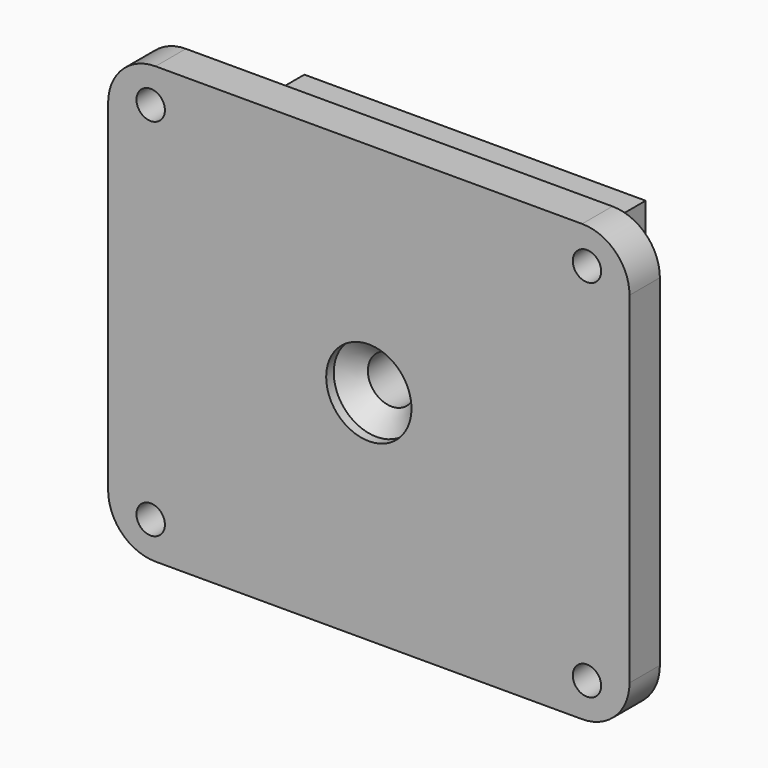
from build123d import *

# Parameters (mm, degrees)
F0_W            = 55
F0_H            = 46
F0_W_2          = 36
F0_H_2          = 36
F1_DEPTH        = 4
F2_DEPTH        = 10
F3_D            = 5
F3_DEPTH        = 38
F8_D            = 9
F8_DEPTH        = 1
F9_D            = 5
F9_DEPTH        = 13
F9_CSINK_D      = 9
F9_CSINK_ANGLE  = 90
F10_D           = 3
F10_DEPTH       = 38
F10_CSINK_D     = 5
F10_CSINK_ANGLE = 90
F11_R           = 5


with BuildPart() as f1:
    # F0 (on Front) → F1 (new body)
    with BuildSketch(Plane.XZ):
        Rectangle(F0_W, F0_H)
        Rectangle(F0_W_2, F0_H_2, mode=Mode.SUBTRACT)
        Rectangle(F0_W_2, F0_H_2)
    extrude(amount=F1_DEPTH)

    # F0 (on Front) → F2 (join)
    with BuildSketch(Plane.XZ):
        Rectangle(F0_W_2, F0_H_2)
    extrude(amount=-F2_DEPTH)

    # F3
    with Locations(Plane.XZ):
        with Locations((0, 0)):
            Hole(F3_D / 2, depth=F3_DEPTH)

    # F8
    with Locations(Plane.XZ.offset(4)):
        with Locations((0, 0)):
            Hole(F8_D / 2, depth=F8_DEPTH)

    # F9
    with Locations(Plane.XZ.offset(3)):
        with Locations((0, 0)):
            CounterSinkHole(F9_D / 2, F9_CSINK_D / 2, depth=F9_DEPTH, counter_sink_angle=F9_CSINK_ANGLE)

    # F10
    with Locations(Plane(origin=(0, 0, 0), x_dir=(1, 0, 0), z_dir=(0, 1, 0))):
        with Locations((-23.012306, -19.246656), (23.012306, -19.246656), (23.012306, 19.246656), (-23.012306, 19.246656)):
            CounterSinkHole(F10_D / 2, F10_CSINK_D / 2, depth=F10_DEPTH, counter_sink_angle=F10_CSINK_ANGLE)

    # F11
    f11_edges = [f1.edges().sort_by_distance(p)[0] for p in [
        (-27.5, -2, 23),
        (27.5, -2, 23),
        (-27.5, -2, -23),
        (27.5, -2, -23),
    ]]
    fillet(f11_edges, radius=F11_R)


solid = f1.part
